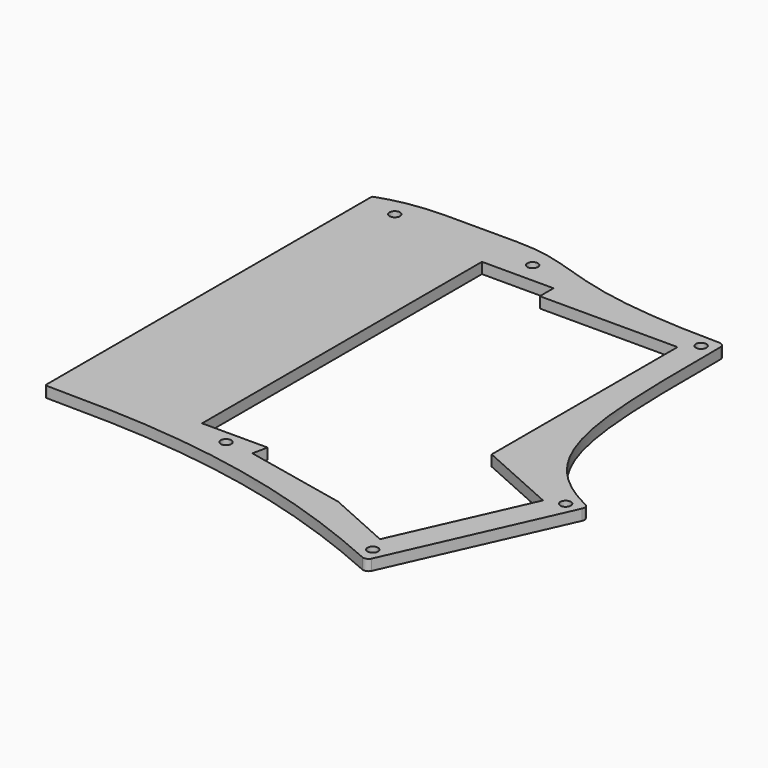
from build123d import *

# Parameters (mm, degrees)
PAD009_DEPTH    = 3
POCKET012_DEPTH = 5
SKETCH044_R     = 1.45
POCKET016_DEPTH = 22
FILLET007_R     = 1.5
FILLET015_R     = 0.5


with BuildPart() as part:
    # Sketch032 → Pad009 (new body)
    with BuildSketch(Plane.XY):
        with BuildLine():
            add(Edge.make_bspline(
                [(48.133333, -17.5342), (72.566704, -17.735607), (107.262527, -17.223288), (153.231854, -38.154949)],
                knots=[0, 0, 0, 0, 1, 1, 1, 1], degree=3))
            Line((153.231854, -38.154949), (175.310198, 11.234895))
            add(Edge.make_bspline(
                [(150.875, 88.9625), (150.875, 42.8625), (150.875, 22.157965), (175.310198, 11.234895)],
                knots=[0, 0, 0, 0, 1, 1, 1, 1], degree=3))
            add(Edge.make_bspline(
                [(85.725, 98.4875), (104.775, 98.4875), (104.775, 88.9625), (150.875, 88.9625)],
                knots=[0, 0, 0, 0, 1, 1, 1, 1], degree=3))
            Line((85.725, 98.4875), (66.675, 98.4875))
            add(Edge.make_bspline(
                [(66.675, 98.4875), (58.346897, 98.489647), (52.856461, 97.147667), (48.133333, 95.467873)],
                knots=[0, 0, 0, 0, 1, 1, 1, 1], degree=3))
            Line((48.133333, 95.467873), (48.133333, -17.5342))
        make_face()
    extrude(amount=PAD009_DEPTH)

    # Sketch033 → Pocket012 (cut)
    with BuildSketch(Plane(origin=(0, 0, 0), x_dir=(1, 0, 0), z_dir=(0, 0, -1))):
        Polygon((85.725, -86.475), (105.525, -86.475), (105.525, -81.7125), (143.625, -81.7125), (143.625, -17.457464), (165.732668, -7.574851), (149.57181, 28.577419), (131.568158, 20.529392), (102.96164, 14.448889), (103.848827, 10.275), (85.725, 10.275), align=None)
    extrude(amount=-POCKET012_DEPTH, mode=Mode.SUBTRACT)

    # Sketch044 → Pocket016 (cut)
    with BuildSketch(Plane.XY):
        with Locations((-4.375, -4.375)):
            Circle(SKETCH044_R)
        with Locations((-4.375, 80.575)):
            Circle(SKETCH044_R)
        with Locations((151.401832, -33.366184)):
            Circle(SKETCH044_R)
        with Locations((170.521433, 9.404873)):
            Circle(SKETCH044_R)
        with Locations((147.25, 85.3375)):
            Circle(SKETCH044_R)
        with Locations((43.25, -13.9)):
            Circle(SKETCH044_R)
        with Locations((57.15, 92.085)):
            Circle(SKETCH044_R)
        with Locations((95.25, 92.085)):
            Circle(SKETCH044_R)
        with Locations((95.25, -13.9)):
            Circle(SKETCH044_R)
    extrude(amount=POCKET016_DEPTH, mode=Mode.SUBTRACT)

    # Fillet007
    fillet007_edges = [part.edges().sort_by_distance(p)[0] for p in [
        (153.231854, -38.154949, 1.5),
        (175.310198, 11.234895, 1.5),
        (150.875, 88.9625, 1.5),
    ]]
    fillet(fillet007_edges, radius=FILLET007_R)

    # Fillet015
    fillet015_edges = [part.edges().sort_by_distance(p)[0] for p in [
        (48.133333, -17.5342, 1.5),
        (48.133333, 95.467873, 1.5),
    ]]
    fillet(fillet015_edges, radius=FILLET015_R)


with BuildPart() as part_1:
    # Body008 placement: moved
    add(part.part.moved(Location((0, 0, -15))))


solid = part_1.part
